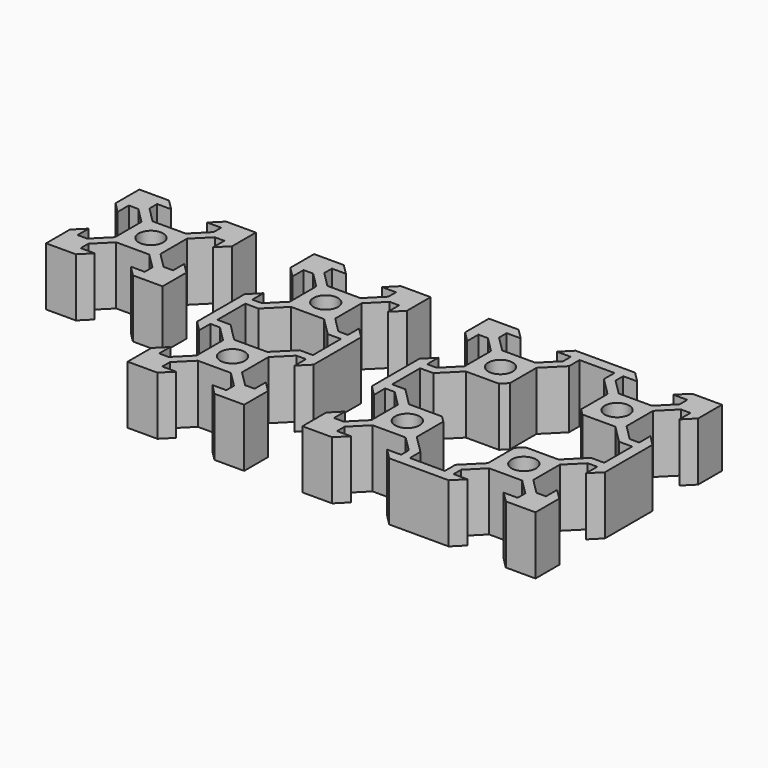
from build123d import *

# Parameters (mm, degrees)
SKETCH_R         = 2.1
EXTRUDE_DEPTH    = 10
SKETCH001_R      = 2.1
EXTRUDE001_DEPTH = 10
SKETCH002_R      = 2.1
EXTRUDE002_DEPTH = 10


with BuildPart() as extrude_body:
    # Sketch → Extrude (new body)
    with BuildSketch(Plane.XY):
        Polygon((-2.84, 3.90066), (-5.49934, 6.56), (-5.49934, 8.2), (-3.1, 8.2), (-4.9, 10), (-10, 10), (-10, 4.9), (-8.2, 3.1), (-8.2, 5.49934), (-6.56, 5.49934), (-3.90066, 2.84), (-3.90066, 0), (-3.90066, -2.84), (-6.56, -5.49934), (-8.2, -5.49934), (-8.2, -3.1), (-10, -4.9), (-10, -10), (-4.9, -10), (-3.1, -8.2), (-5.49934, -8.2), (-5.49934, -6.56), (-2.84, -3.90066), (0, -3.90066), (2.84, -3.90066), (5.49934, -6.56), (5.49934, -8.2), (3.1, -8.2), (4.9, -10), (10, -10), (10, -4.9), (8.2, -3.1), (8.2, -5.49934), (6.56, -5.49934), (3.90066, -2.84), (3.90066, 0), (3.90066, 2.84), (6.56, 5.49934), (8.2, 5.49934), (8.2, 3.1), (10, 4.9), (10, 10), (4.9, 10), (3.1, 8.2), (5.49934, 8.2), (5.49934, 6.56), (2.84, 3.90066), (0, 3.90066), align=None)
        Circle(SKETCH_R, mode=Mode.SUBTRACT)
    extrude(amount=EXTRUDE_DEPTH)


with BuildPart() as extrude001:
    # Sketch001 → Extrude001 (new body)
    with BuildSketch(Plane.XY):
        Polygon((20, 10), (20, 4.9), (21.8, 3.1), (21.8, 5.49934), (23.44, 5.49934), (26.09934, 2.84), (26.09934, 0), (26.09934, -2.84), (23.44, -5.49934), (21.8, -5.49934), (21.8, -3.1), (20, -4.9), (20, -10), (20, -15.1), (21.8, -16.9), (21.8, -14.50066), (23.44, -14.50066), (26.09934, -17.16), (26.09934, -20), (26.09934, -22.84), (23.44, -25.49934), (21.8, -25.49934), (21.8, -23.1), (20, -24.9), (20, -30), (25.1, -30), (26.9, -28.2), (24.50066, -28.2), (24.50066, -26.56), (27.16, -23.90066), (30, -23.90066), (32.84, -23.90066), (35.49934, -26.56), (35.49934, -28.2), (33.1, -28.2), (34.9, -30), (40, -30), (40, -24.9), (38.2, -23.1), (38.2, -25.49934), (36.56, -25.49934), (33.90066, -22.84), (33.90066, -20), (33.90066, -17.16), (36.56, -14.50066), (38.2, -14.50066), (38.2, -16.9), (40, -15.1), (40, -10), (40, -4.9), (38.2, -3.1), (38.2, -5.49934), (36.56, -5.49934), (33.90066, -2.84), (33.90066, 0), (33.90066, 2.84), (36.56, 5.49934), (38.2, 5.49934), (38.2, 3.1), (40, 4.9), (40, 10), (34.9, 10), (33.1, 8.2), (35.49934, 8.2), (35.49934, 6.56), (32.84, 3.90066), (30, 3.90066), (27.16, 3.90066), (24.50066, 6.56), (24.50066, 8.2), (26.9, 8.2), (25.1, 10), align=None)
        with Locations((30, 0)):
            Circle(SKETCH001_R, mode=Mode.SUBTRACT)
        with Locations((30, -20)):
            Circle(SKETCH001_R, mode=Mode.SUBTRACT)
        Polygon((35.93868, -6.99934), (32.84, -3.90066), (30, -3.90066), (27.16, -3.90066), (24.06132, -6.99934), (21.8, -6.99934), (21.8, -13.00066), (24.06132, -13.00066), (27.16, -16.09934), (30, -16.09934), (32.84, -16.09934), (35.93868, -13.00066), (38.2, -13.00066), (38.2, -6.99934), align=None, mode=Mode.SUBTRACT)
    extrude(amount=EXTRUDE001_DEPTH)


with BuildPart() as extrude002:
    # Sketch002 → Extrude002 (new body)
    with BuildSketch(Plane.XY):
        Polygon((51.8, -5.49934), (51.8, -3.1), (50, -4.9), (50, -10), (50, -15.1), (51.8, -16.9), (51.8, -14.50066), (53.44, -14.50066), (56.09934, -17.16), (56.09934, -20), (56.09934, -22.84), (53.44, -25.49934), (51.8, -25.49934), (51.8, -23.1), (50, -24.9), (50, -30), (55.1, -30), (56.9, -28.2), (54.50066, -28.2), (54.50066, -26.56), (57.16, -23.90066), (60, -23.90066), (62.84, -23.90066), (65.49934, -26.56), (65.49934, -28.2), (63.1, -28.2), (64.9, -30), (70, -30), (75.1, -30), (76.9, -28.2), (74.50066, -28.2), (74.50066, -26.56), (77.16, -23.90066), (80, -23.90066), (82.84, -23.90066), (85.49934, -26.56), (85.49934, -28.2), (83.1, -28.2), (84.9, -30), (90, -30), (90, -24.9), (88.2, -23.1), (88.2, -25.49934), (86.56, -25.49934), (83.90066, -22.84), (83.90066, -20), (83.90066, -17.16), (86.56, -14.50066), (88.2, -14.50066), (88.2, -16.9), (90, -15.1), (90, -10), (90, -4.9), (88.2, -3.1), (88.2, -5.49934), (86.56, -5.49934), (83.90066, -2.84), (83.90066, 0), (83.90066, 2.84), (86.56, 5.49934), (88.2, 5.49934), (88.2, 3.1), (90, 4.9), (90, 10), (84.9, 10), (83.1, 8.2), (85.49934, 8.2), (85.49934, 6.56), (82.84, 3.90066), (80, 3.90066), (77.16, 3.90066), (74.50066, 6.56), (74.50066, 8.2), (76.9, 8.2), (75.1, 10), (70, 10), (64.9, 10), (63.1, 8.2), (65.49934, 8.2), (65.49934, 6.56), (62.84, 3.90066), (60, 3.90066), (57.16, 3.90066), (54.50066, 6.56), (54.50066, 8.2), (56.9, 8.2), (55.1, 10), (50, 10), (50, 4.9), (51.8, 3.1), (51.8, 5.49934), (53.44, 5.49934), (56.09934, 2.84), (56.09934, 0), (56.09934, -2.84), (53.44, -5.49934), align=None)
        with Locations((60, -20)):
            Circle(SKETCH002_R, mode=Mode.SUBTRACT)
        with Locations((60, 0)):
            Circle(SKETCH002_R, mode=Mode.SUBTRACT)
        with Locations((80, -20)):
            Circle(SKETCH002_R, mode=Mode.SUBTRACT)
        with Locations((80, 0)):
            Circle(SKETCH002_R, mode=Mode.SUBTRACT)
        Polygon((51.8, -6.99934), (51.8, -13.00066), (54.06132, -13.00066), (57.16, -16.09934), (60, -16.09934), (62.84, -16.09934), (63.90066, -17.16), (63.90066, -20), (63.90066, -22.84), (66.56, -25.49934), (66.99934, -25.93868), (66.99934, -28.2), (73.00066, -28.2), (73.00066, -25.93868), (73.44, -25.49934), (76.09934, -22.84), (76.09934, -20), (76.09934, -17.16), (77.16, -16.09934), (80, -16.09934), (82.84, -16.09934), (85.93868, -13.00066), (88.2, -13.00066), (88.2, -6.99934), (85.93868, -6.99934), (82.84, -3.90066), (80, -3.90066), (77.16, -3.90066), (76.09934, -2.84), (76.09934, 0), (76.09934, 2.84), (73.44, 5.49934), (73.00066, 5.93868), (73.00066, 8.2), (66.99934, 8.2), (66.99934, 5.93868), (66.56, 5.49934), (63.90066, 2.84), (63.90066, 0), (63.90066, -2.84), (62.84, -3.90066), (60, -3.90066), (57.16, -3.90066), (54.06132, -6.99934), align=None, mode=Mode.SUBTRACT)
    extrude(amount=EXTRUDE002_DEPTH)


solid = Compound([extrude_body.part, extrude001.part, extrude002.part])
